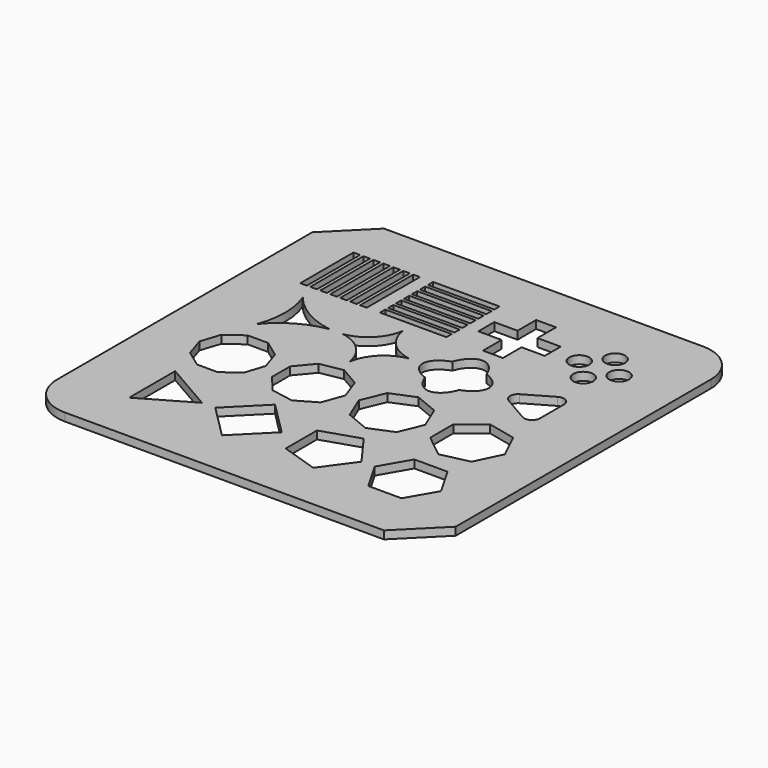
from build123d import *

# Parameters (mm, degrees)
F1_W     = 50
F1_H     = 50
F1_W_2   = 8.3333333333
F1_H_2   = 0.8333333333
F1_W_3   = 0.8333333333
F1_H_3   = 8.3333333333
F1_R     = 1.25
F2_DEPTH = 1
F3_R     = 5
F4_SIZE  = 5


with BuildPart() as f2:
    # F1 (on Top) → F2 (new body)
    with BuildSketch(Plane.XY):
        Rectangle(F1_W, F1_H)
        Polygon((-17.0833333333, -11.3915608176), (-10.8333333333, -15), (-17.0833333333, -18.6084391824), align=None, mode=Mode.SUBTRACT)
        Polygon((-5, -10.8333333333), (-0.8333333333, -15), (-5, -19.1666666667), (-9.1666666667, -15), align=None, mode=Mode.SUBTRACT)
        Polygon((-11.6290958568, -2.5508947821), (-10.8333333333, -5), (-11.6290958568, -7.4491052179), (-13.7124291901, -8.9627354846), (-16.2875708099, -8.9627354846), (-18.3709041432, -7.4491052179), (-19.1666666667, -5), (-18.3709041432, -2.5508947821), (-16.2875708099, -1.0372645154), (-13.7124291901, -1.0372645154), align=None, mode=Mode.SUBTRACT)
        Polygon((-1.8081481537, -2.321718293), (-0.8333333333, -5), (-1.8081481537, -7.678281707), (-4.2764659264, -9.1033656376), (-7.0833333333, -8.6084391824), (-8.9153859199, -6.4250839305), (-8.9153859199, -3.5749160695), (-7.0833333333, -1.3915608176), (-4.2764659264, -0.8966343624), align=None, mode=Mode.SUBTRACT)
        Polygon((6.2875708099, -11.0372645154), (9.1666666667, -15), (6.2875708099, -18.9627354846), (1.6290958568, -17.4491052179), (1.6290958568, -12.5508947821), align=None, mode=Mode.SUBTRACT)
        Polygon((17.0833333333, -11.3915608176), (19.1666666667, -15), (17.0833333333, -18.6084391824), (12.9166666667, -18.6084391824), (10.8333333333, -15), (12.9166666667, -11.3915608176), align=None, mode=Mode.SUBTRACT)
        Polygon((7.9462782549, -2.0537217451), (9.1666666667, -5), (7.9462782549, -7.9462782549), (5, -9.1666666667), (2.0537217451, -7.9462782549), (0.8333333333, -5), (2.0537217451, -2.0537217451), (5, -0.8333333333), align=None, mode=Mode.SUBTRACT)
        Polygon((17.5978741744, -1.742368823), (19.1666666667, -5), (17.5978741744, -8.257631177), (14.0728294418, -9.0621996341), (11.2459630504, -6.807848913), (11.2459630504, -3.192151087), (14.0728294418, -0.9378003659), align=None, mode=Mode.SUBTRACT)
        with BuildLine():
            ThreePointArc((-10.8333333333, 5), (-14.2952022322, 3.7792544571), (-17.0833333333, 1.3915608176))
            ThreePointArc((-17.0833333333, 1.3915608176), (-16.4095955357, 5), (-17.0833333333, 8.6084391824))
            ThreePointArc((-17.0833333333, 8.6084391824), (-14.2952022322, 6.2207455429), (-10.8333333333, 5))
        make_face(mode=Mode.SUBTRACT)
        with BuildLine():
            ThreePointArc((-5, 0.8333333333), (-6.4043221776, 3.5956778224), (-9.1666666667, 5))
            ThreePointArc((-9.1666666667, 5), (-6.4043221776, 6.4043221776), (-5, 9.1666666667))
            ThreePointArc((-5, 9.1666666667), (-3.5956778224, 6.4043221776), (-0.8333333333, 5))
            ThreePointArc((-0.8333333333, 5), (-3.5956778224, 3.5956778224), (-5, 0.8333333333))
        make_face(mode=Mode.SUBTRACT)
        with Locations((-5, 11.25)):
            Rectangle(F1_W_2, F1_H_2, mode=Mode.SUBTRACT)
        with Locations((-18.75, 15)):
            Rectangle(F1_W_3, F1_H_3, mode=Mode.SUBTRACT)
        with Locations((-17.5, 15)):
            Rectangle(F1_W_3, F1_H_3, mode=Mode.SUBTRACT)
        with Locations((-16.25, 15)):
            Rectangle(F1_W_3, F1_H_3, mode=Mode.SUBTRACT)
        with Locations((-15, 15)):
            Rectangle(F1_W_3, F1_H_3, mode=Mode.SUBTRACT)
        with Locations((-13.75, 15)):
            Rectangle(F1_W_3, F1_H_3, mode=Mode.SUBTRACT)
        with Locations((-12.5, 15)):
            Rectangle(F1_W_3, F1_H_3, mode=Mode.SUBTRACT)
        with Locations((-11.25, 15)):
            Rectangle(F1_W_3, F1_H_3, mode=Mode.SUBTRACT)
        with Locations((-5, 12.5)):
            Rectangle(F1_W_2, F1_H_2, mode=Mode.SUBTRACT)
        with Locations((-5, 13.75)):
            Rectangle(F1_W_2, F1_H_2, mode=Mode.SUBTRACT)
        with Locations((-5, 15)):
            Rectangle(F1_W_2, F1_H_2, mode=Mode.SUBTRACT)
        with Locations((-5, 16.25)):
            Rectangle(F1_W_2, F1_H_2, mode=Mode.SUBTRACT)
        with Locations((-5, 17.5)):
            Rectangle(F1_W_2, F1_H_2, mode=Mode.SUBTRACT)
        with Locations((-5, 18.75)):
            Rectangle(F1_W_2, F1_H_2, mode=Mode.SUBTRACT)
        with BuildLine():
            add(Edge.make_bspline(
                [(5, 9.1666666667), (3.5845240526, 9.1666666667), (2.8562676857, 7.1437323143)],
                knots=[0, 0, 0, 1.0303768265, 1.0303768265, 1.0303768265], degree=2, weights=[1, 0.8701999068, 1]))
            add(Edge.make_bspline(
                [(7.1437323143, 7.1437323143), (6.4154759474, 9.1666666667), (5, 9.1666666667)],
                knots=[5.2528084807, 5.2528084807, 5.2528084807, 6.2831853072, 6.2831853072, 6.2831853072], degree=2, weights=[1, 0.8701999068, 1]))
            add(Edge.make_bspline(
                [(9.1666666667, 5), (9.1666666667, 6.4154759474), (7.1437323143, 7.1437323143)],
                knots=[0, 0, 0, 1.0303768265, 1.0303768265, 1.0303768265], degree=2, weights=[1, 0.8701999068, 1]))
            add(Edge.make_bspline(
                [(7.1437323143, 2.8562676857), (9.1666666667, 3.5845240526), (9.1666666667, 5)],
                knots=[5.2528084807, 5.2528084807, 5.2528084807, 6.2831853072, 6.2831853072, 6.2831853072], degree=2, weights=[1, 0.8701999068, 1]))
            add(Edge.make_bspline(
                [(2.8562676857, 2.8562676857), (5, -3.0985442984), (7.1437323143, 2.8562676857)],
                knots=[2.1112158271, 2.1112158271, 2.1112158271, 4.1719694801, 4.1719694801, 4.1719694801], degree=2, weights=[1, 0.5144957554, 1]))
            add(Edge.make_bspline(
                [(2.8562676857, 7.1437323143), (-3.0985442984, 5), (2.8562676857, 2.8562676857)],
                knots=[2.1112158271, 2.1112158271, 2.1112158271, 4.1719694801, 4.1719694801, 4.1719694801], degree=2, weights=[1, 0.5144957554, 1]))
        make_face(mode=Mode.SUBTRACT)
        with BuildLine():
            ThreePointArc((12.3333333333, 4.1339745962), (11.8333333333, 5), (12.3333333333, 5.8660254038))
            Line((12.3333333333, 5.8660254038), (15.5833333333, 7.7424137787))
            ThreePointArc((15.5833333333, 7.7424137787), (16.5833333333, 7.7424137787), (17.0833333333, 6.8763883749))
            Line((17.0833333333, 6.8763883749), (17.0833333333, 3.1236116251))
            ThreePointArc((17.0833333333, 3.1236116251), (16.5833333333, 2.2575862213), (15.5833333333, 2.2575862213))
            Line((15.5833333333, 2.2575862213), (12.3333333333, 4.1339745962))
        make_face(mode=Mode.SUBTRACT)
        Polygon((3.75, 16.25), (3.75, 19.1666666667), (6.25, 19.1666666667), (6.25, 16.25), (9.1666666667, 16.25), (9.1666666667, 13.75), (6.25, 13.75), (6.25, 10.8333333333), (3.75, 10.8333333333), (3.75, 13.75), (0.8333333333, 13.75), (0.8333333333, 16.25), align=None, mode=Mode.SUBTRACT)
        with Locations((15, 12.5)):
            Circle(F1_R, mode=Mode.SUBTRACT)
        with Locations((12.5, 15)):
            Circle(F1_R, mode=Mode.SUBTRACT)
        with Locations((17.5, 15)):
            Circle(F1_R, mode=Mode.SUBTRACT)
        with Locations((15, 17.5)):
            Circle(F1_R, mode=Mode.SUBTRACT)
    extrude(amount=F2_DEPTH)

    # F3
    f3_edges = [f2.edges().sort_by_distance(p)[0] for p in [
        (-25, -25, 0.5),
        (25, 25, 0.5),
    ]]
    fillet(f3_edges, radius=F3_R)

    # F4
    f4_edges = [f2.edges().sort_by_distance(p)[0] for p in [
        (25, -25, 0.5),
        (-25, 25, 0.5),
    ]]
    chamfer(f4_edges, length=F4_SIZE)


solid = f2.part
